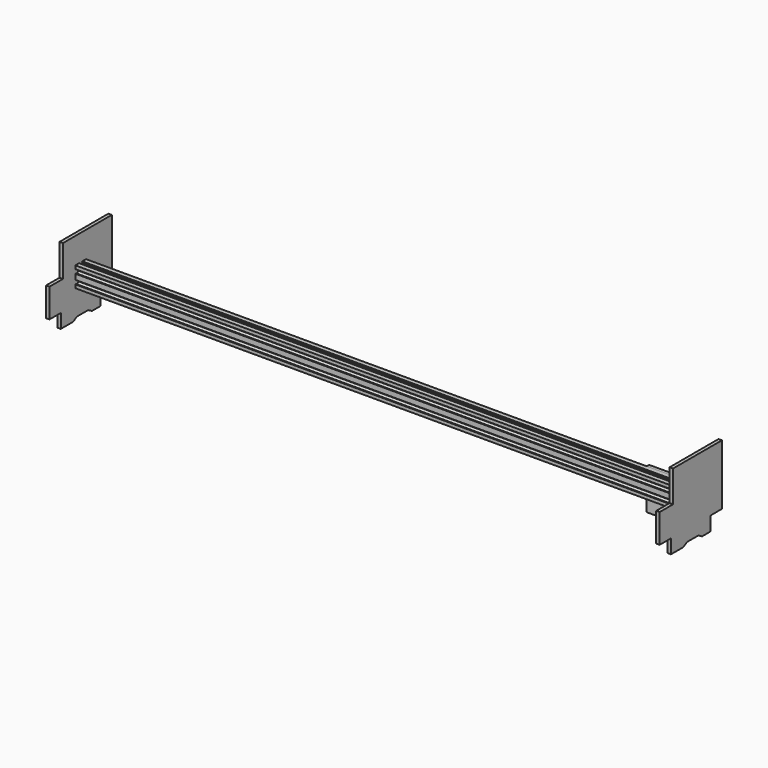
from build123d import *

# Parameters (mm, degrees)
SKETCH_R     = 1.5
PAD_DEPTH    = 452
PAD001_DEPTH = 5.08
SKETCH002_W  = 42
SKETCH002_H  = 60
PAD002_DEPTH = 5


with BuildPart() as part:
    # Sketch → Pad (new body, symmetric)
    with BuildSketch(Plane.YZ):
        Polygon((-10, 30), (-3, 30), (-3, 28.5), (-4.5, 28.5), (-4.5, 27), (-1.5, 24), (1.5, 24), (4.5, 27), (4.5, 28.5), (3, 28.5), (3, 30), (10, 30), (10, 25), (8.5, 25), (8.5, 26.5), (7, 26.5), (4, 23.5), (4, 20.5), (7, 17.5), (8.5, 17.5), (8.5, 19), (10, 19), (10, 11), (8.5, 11), (8.5, 12.5), (7, 12.5), (4, 9.5), (4, 6.5), (7, 3.5), (8.5, 3.5), (8.5, 5), (10, 5), (10, 0), (3, 0), (3, 1.5), (4.5, 1.5), (4.5, 3), (1.5, 6), (-1.5, 6), (-4.5, 3), (-4.5, 1.5), (-3, 1.5), (-3, 0), (-10, 0), (-10, 5), (-8.5, 5), (-8.5, 3.5), (-7, 3.5), (-4, 6.5), (-4, 9.5), (-7, 12.5), (-8.5, 12.5), (-8.5, 11), (-10, 11), (-10, 19), (-8.5, 19), (-8.5, 17.5), (-7, 17.5), (-4, 20.5), (-4, 23.5), (-7, 26.5), (-8.5, 26.5), (-8.5, 25), (-10, 25), align=None)
        with Locations((0, 8)):
            Circle(SKETCH_R, mode=Mode.SUBTRACT)
        with Locations((0, 22)):
            Circle(SKETCH_R, mode=Mode.SUBTRACT)
        Polygon((-7, 15), (-2.716354, 19.283646), (2.716354, 19.283646), (7, 15), (2.716354, 10.716354), (-2.716354, 10.716354), align=None, mode=Mode.SUBTRACT)
    extrude(amount=PAD_DEPTH, both=True)

    # Sketch001 → Pad001 (join)
    with BuildSketch(Plane.YZ.offset(452)):
        Polygon((-33, 68.5), (-33, 21.5), (-58, 21.5), (-58, -21.5), (-37, -21.5), (-37, -42.5), (-13.928203, -42.5), (-7, -38.5), (14, -38.5), (20.928203, -42.5), (37, -42.5), (37, -21.5), (58, -21.5), (58, 68.5), align=None)
    pad001 = extrude(amount=PAD001_DEPTH)

    # Mirrored: Pad001 across YZ
    add(pad001.mirror(Plane.YZ))

    # Sketch002 → Pad002 (join)
    with BuildSketch(Plane.XZ.offset(-10)):
        with Locations((404, -0.3)):
            Rectangle(SKETCH002_W, SKETCH002_H)
    extrude(amount=-PAD002_DEPTH)


solid = part.part
